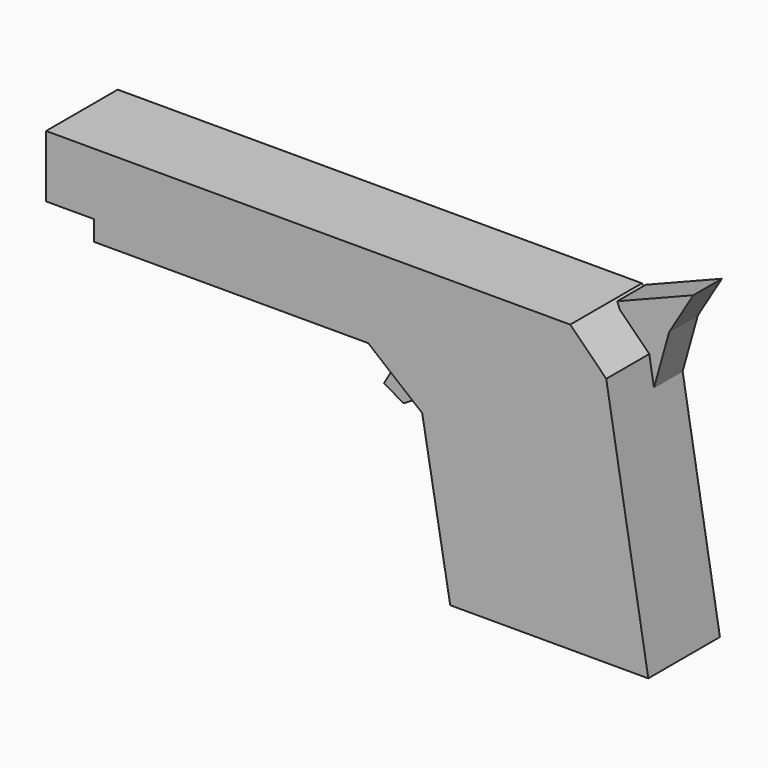
from build123d import *

# Parameters (mm, degrees)
F1_DEPTH = 12.7
F3_DEPTH = 5.08
F5_DEPTH = 6.35


with BuildPart() as f1:
    # F0 (on Front) → F1 (new body)
    with BuildSketch(Plane.XZ):
        Polygon((23.690905, 22.697873), (27.663032, 0), (55.751652, 0), (49.793456, 35.465427), (44.68644, 40.572446), (-29.649096, 40.572446), (-29.649096, 31.777021), (-22.839734, 31.777021), (-22.839734, 28.939787), (16.030373, 28.939787), align=None)
    extrude(amount=F1_DEPTH)

    # F2 (on Front) → F3 (join)
    with BuildSketch(Plane.XZ):
        Polygon((56.03537, 44.828296), (45.253884, 40.572446), (47.605801, 34.614256), (50.077181, 30.074682), (52.630689, 39.153829), align=None)
    extrude(amount=F3_DEPTH)

    # F4 (on Front) → F5 (join)
    with BuildSketch(Plane.XZ):
        Polygon((23.407178, 23.265319), (17.44899, 27.804894), (13.193138, 20.428086), (15.968651, 18.826828), align=None)
    extrude(amount=F5_DEPTH)


solid = f1.part
